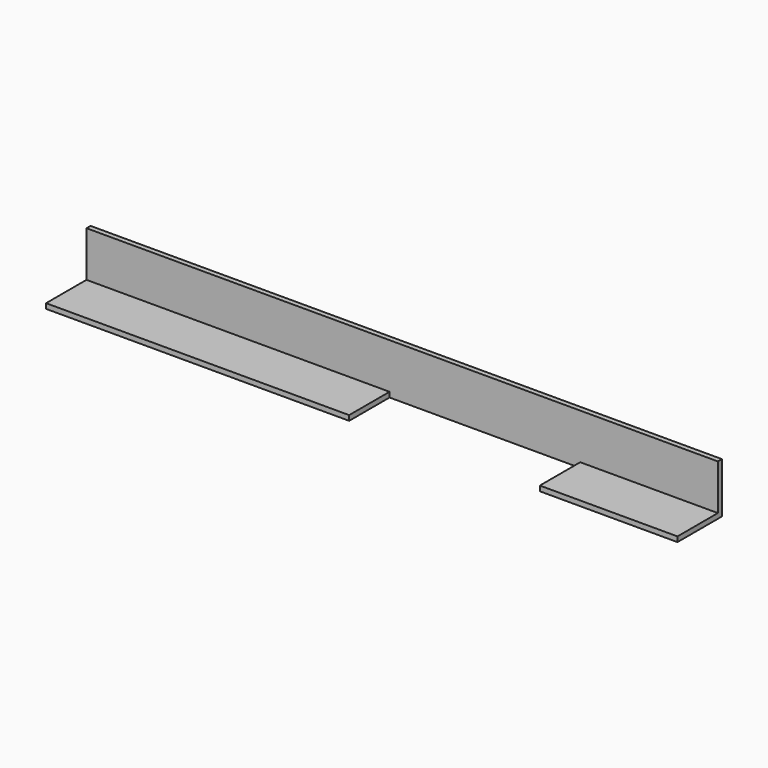
from build123d import *

# Parameters (mm, degrees)
F0_W     = 250
F0_H     = 2
F0_H_2   = 18
F1_DEPTH = 2
F2_DEPTH = 22
F3_W     = 75.5
F3_H     = 2
F4_DEPTH = 20


with BuildPart() as f1:
    # F0 (on Front) → F1 (new body)
    with BuildSketch(Plane.XZ):
        with Locations((125, 1)):
            Rectangle(F0_W, F0_H)
        with Locations((125, 11)):
            Rectangle(F0_W, F0_H_2)
    extrude(amount=F1_DEPTH)

    # F0 (on Front) → F2 (join)
    with BuildSketch(Plane.XZ):
        with Locations((125, 1)):
            Rectangle(F0_W, F0_H)
    extrude(amount=F2_DEPTH)

    # F3 (on face) → F4 (cut, through all)
    with BuildSketch(Plane.XZ.offset(22)):
        with Locations((157.75, 1)):
            Rectangle(F3_W, F3_H)
    extrude(amount=-F4_DEPTH, mode=Mode.SUBTRACT)


solid = f1.part
